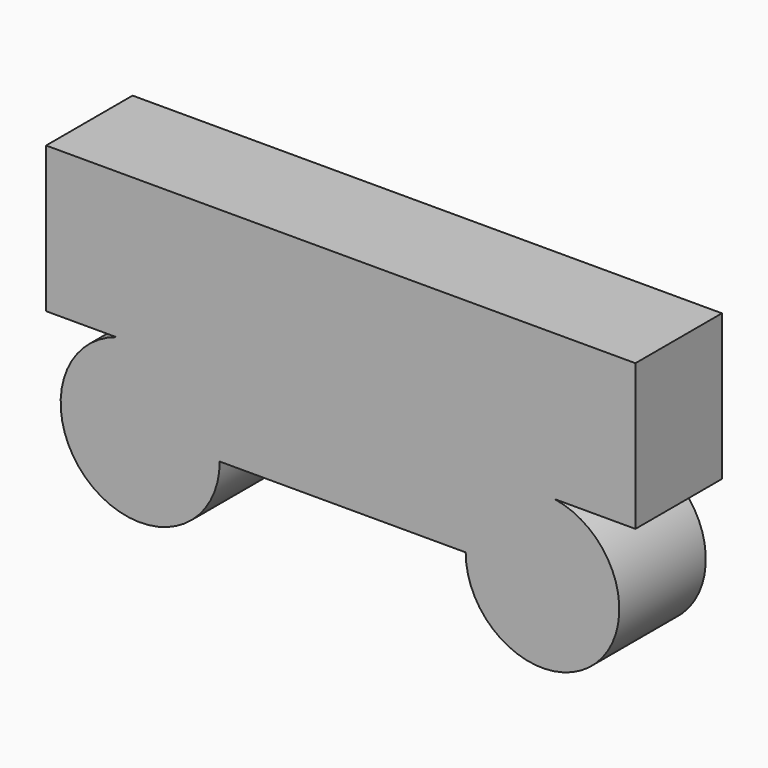
from build123d import *

# Parameters (mm, degrees)
F1_DEPTH = 25.4


with BuildPart() as f1:
    # F0 (on Front) → F1 (new body)
    with BuildSketch(Plane.XZ):
        with BuildLine():
            Line((-37.228064, 17.826062), (-48.447585, 17.826062))
            ThreePointArc((-48.447585, 17.826062), (-53.892308, -15.067723), (-24.149917, 0))
            ThreePointArc((-24.149917, 0), (-27.770101, 11.054483), (-37.228064, 17.826062))
        make_face()
        Polygon((-64.947672, 17.826062), (-48.447585, 17.826062), (-37.228064, 17.826062), (48.876876, 17.826062), (54.486646, 17.826062), (73.515236, 17.826062), (73.515236, 52.096322), (-64.947672, 52.096322), align=None)
        with BuildLine():
            ThreePointArc((-37.228064, 17.826062), (-27.770101, 11.054483), (-24.149917, 0))
            Line((-24.149917, 0), (33.636377, 0))
            ThreePointArc((33.636377, 0), (37.965874, 11.726479), (48.876876, 17.826062))
            Line((48.876876, 17.826062), (-37.228064, 17.826062))
        make_face()
        with BuildLine():
            ThreePointArc((48.876876, 17.826062), (37.965874, 11.726479), (33.636377, 0))
            ThreePointArc((33.636377, 0), (63.40824, -13.715886), (54.486646, 17.826062))
            Line((54.486646, 17.826062), (48.876876, 17.826062))
        make_face()
    extrude(amount=F1_DEPTH)


solid = f1.part
